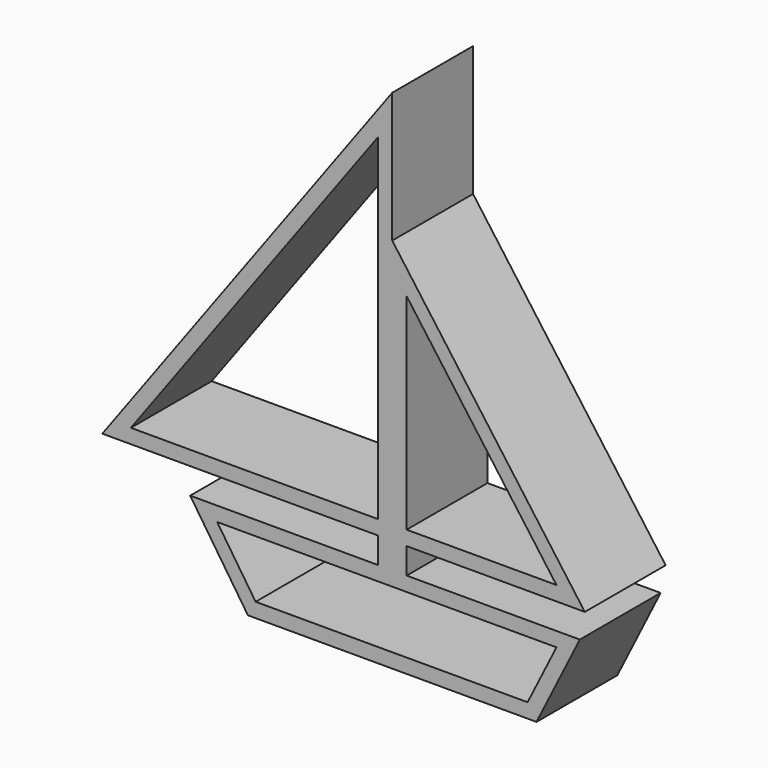
from build123d import *

# Parameters (mm, degrees)
F1_DEPTH = 17.5


with BuildPart() as f1:
    # F0 (on Front) → F1 (new body, symmetric)
    with BuildSketch(Plane.XZ):
        Polygon((-70, 0), (-50, -30), (50, -30), (65, 0), (5, 0), (0, 0), (-5, 0), align=None)
        Polygon((-47.324081, -25), (-60.657415, -5), (56.90983, -5), (46.90983, -25), align=None, mode=Mode.SUBTRACT)
        Polygon((-5, 9), (-5, 0), (0, 0), (0, 100.557588), (0, 145.658404), (-100.439191, 9), align=None)
        Polygon((-5, 130.412532), (-5, 14), (-90.559177, 14), align=None, mode=Mode.SUBTRACT)
        Polygon((0, 0), (5, 0), (5, 9), (66.742107, 9), (0, 100.557588), align=None)
        Polygon((56.90983, 14), (5, 14), (5, 85.2105), align=None, mode=Mode.SUBTRACT)
    extrude(amount=F1_DEPTH, both=True)


solid = f1.part
